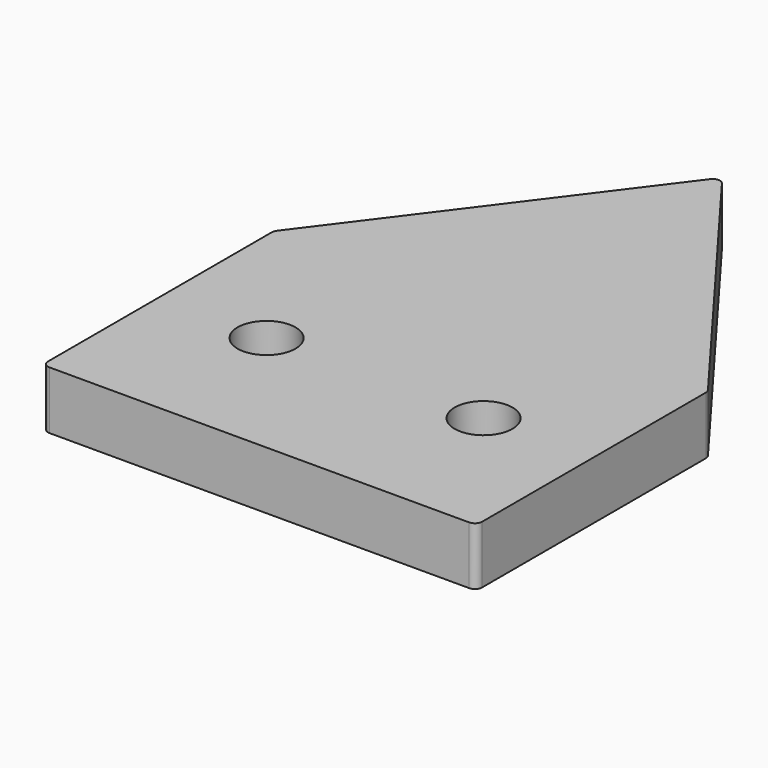
from build123d import *

# Parameters (mm, degrees)
F1_DEPTH = 4
F2_R     = 0.5
F4_D     = 4


with BuildPart() as f1:
    # F0 (on Top) → F1 (new body)
    with BuildSketch(Plane.XY):
        Polygon((-15, -10), (15, -10), (15, 10), (0, 30), (-15, 10), align=None)
    extrude(amount=F1_DEPTH)

    # F2
    f2_edges = [f1.edges().sort_by_distance(p)[0] for p in [
        (15, 10, 2),
        (15, -10, 2),
        (0, 30, 2),
        (-15, 10, 2),
        (-15, -10, 2),
    ]]
    fillet(f2_edges, radius=F2_R)

    # F4 (through all)
    with Locations(Plane(origin=(0, 0, 0), x_dir=(1, 0, 0), z_dir=(0, 0, -1))):
        with Locations((7.5, 0), (-7.5, 0)):
            Hole(F4_D / 2)


solid = f1.part
